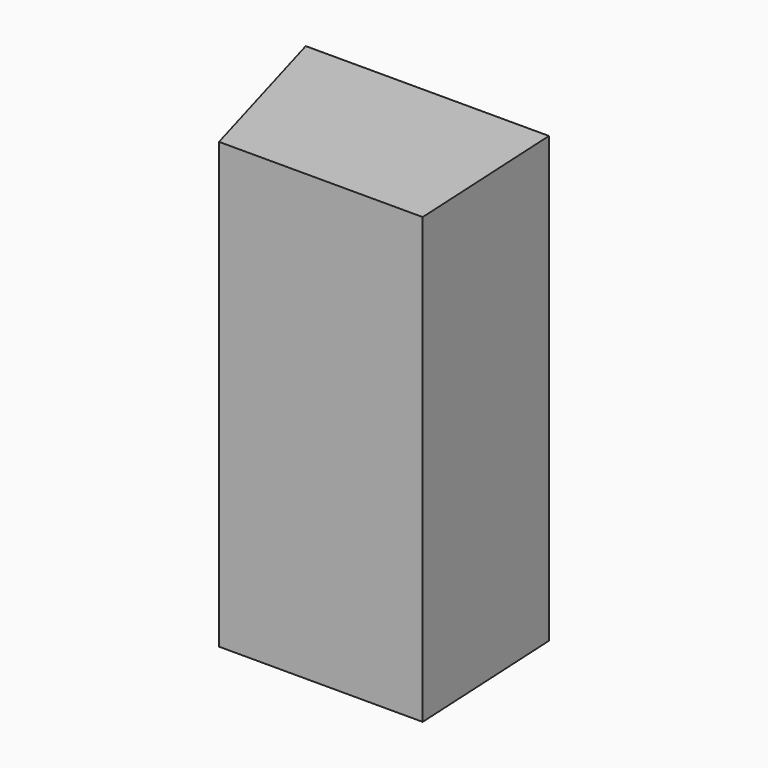
from build123d import *

# Parameters (mm, degrees)
F0_R     = 15.643323
F1_DEPTH = 152.4


with BuildPart() as f1:
    # F0 (on Top) → F1 (new body)
    with BuildSketch(Plane.XY):
        Polygon((44.993155, 38.807843), (-38.40879, 38.807843), (-21.848118, -19.054752), (47.986045, -19.054752), align=None)
        Circle(F0_R, mode=Mode.SUBTRACT)
        Circle(F0_R)
    extrude(amount=F1_DEPTH)


solid = f1.part
